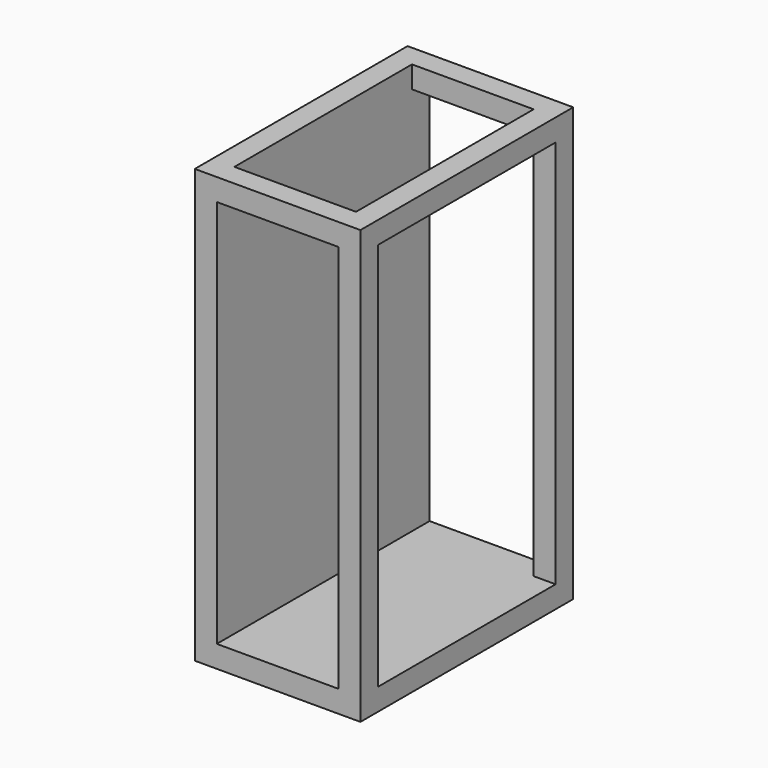
from build123d import *

# Parameters (mm, degrees)
F0_W     = 387
F0_H     = 630
F1_DEPTH = 120.5
F3_W     = 177
F3_H     = 323
F5_DEPTH = 145.5
F2_W     = 323
F2_H     = 566
F6_DEPTH = 193
F4_W     = 177
F4_H     = 566
F7_DEPTH = 211
F8_W     = 177
F8_H     = 323
F9_DEPTH = 315.001


with BuildPart() as f1:
    # F0 (on Right) → F1 (new body, symmetric)
    with BuildSketch(Plane.YZ):
        Rectangle(F0_W, F0_H)
    extrude(amount=F1_DEPTH, both=True)


with BuildPart() as f5:
    # F3 (on Top) → F5 (new body, symmetric)
    with BuildSketch(Plane.XY):
        Rectangle(F3_W, F3_H)
    extrude(amount=F5_DEPTH, both=True)


with BuildPart() as f6_tool:
    # F2 (on face) → F6 (new body)
    with BuildSketch(Plane.YZ.offset(120.5)):
        Rectangle(F2_W, F2_H)
    extrude(amount=-F6_DEPTH)


with BuildPart() as f1_1:
    add(f1.part)

    # F6: cut by f6_tool
    add(f6_tool.part, mode=Mode.SUBTRACT)


with BuildPart() as f5_1:
    add(f5.part)

    # F6: cut by f6_tool
    add(f6_tool.part, mode=Mode.SUBTRACT)


with BuildPart() as f7_tool:
    # F4 (on Front) → F7 (new body, symmetric)
    with BuildSketch(Plane.XZ):
        Rectangle(F4_W, F4_H)
    extrude(amount=F7_DEPTH, both=True)


with BuildPart() as f1_2:
    add(f1_1.part)

    # F7: cut by f7_tool
    add(f7_tool.part, mode=Mode.SUBTRACT)

    # F8 (on Top) → F9 (cut, through all)
    with BuildSketch(Plane.XY):
        Rectangle(F8_W, F8_H)
    extrude(amount=F9_DEPTH, mode=Mode.SUBTRACT)


with BuildPart() as f5_2:
    add(f5_1.part)

    # F7: cut by f7_tool
    add(f7_tool.part, mode=Mode.SUBTRACT)


solid = f1_2.part
